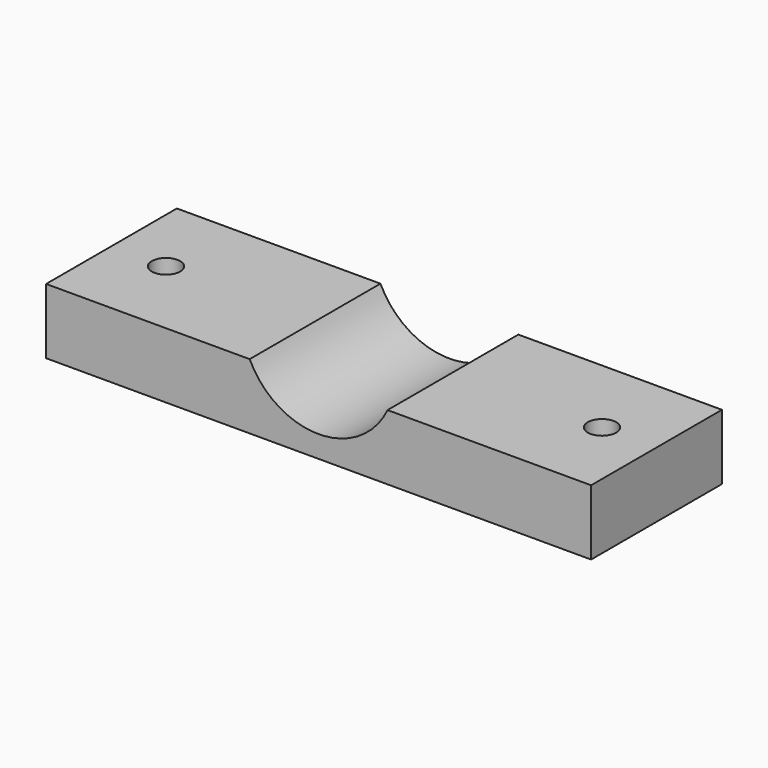
from build123d import *

# Parameters (mm, degrees)
SKETCH_W        = 50
SKETCH_H        = 15
PAD_DEPTH       = 6
SKETCH001_R     = 7
POCKET_DEPTH    = 15.001
SKETCH002_R     = 1.3
POCKET001_DEPTH = 6.001
SKETCH018_R     = 3
POCKET013_DEPTH = 4


with BuildPart() as part:
    # Sketch → Pad (new body)
    with BuildSketch(Plane.XY):
        Rectangle(SKETCH_W, SKETCH_H)
    extrude(amount=PAD_DEPTH)

    # Sketch001 (on Face3 of Pad) → Pocket (cut, through all)
    with BuildSketch(Plane.XZ.offset(7.5)):
        with Locations((0, 9)):
            Circle(SKETCH001_R)
    extrude(amount=-POCKET_DEPTH, mode=Mode.SUBTRACT)

    # Sketch002 (on Face6 of Pad) → Pocket001 (cut, through all)
    with BuildSketch(Plane.XY.offset(6)):
        with Locations((-20, 0)):
            Circle(SKETCH002_R)
        with Locations((20, 0)):
            Circle(SKETCH002_R)
    extrude(amount=-POCKET001_DEPTH, mode=Mode.SUBTRACT)

    # Sketch018 (on Face2 of Pocket001) → Pocket013 (cut)
    with BuildSketch(Plane(origin=(0, 0, 0), x_dir=(1, 0, 0), z_dir=(0, 0, -1))):
        with Locations((-20, 0)):
            Circle(SKETCH018_R)
        with Locations((20, 0)):
            Circle(SKETCH018_R)
    extrude(amount=-POCKET013_DEPTH, mode=Mode.SUBTRACT)


with BuildPart() as part_1:
    # Body placement: moved
    add(part.part.moved(Location((80, 0, 0))))


solid = part_1.part
